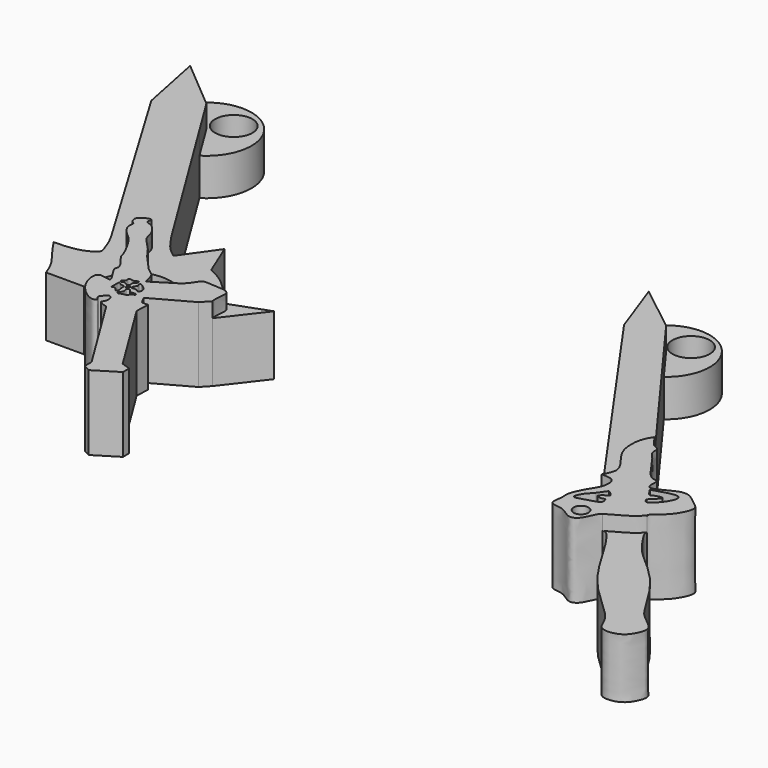
from build123d import *

# Parameters (mm, degrees)
F0_W     = 0.2278201282
F0_H     = 0.2657882869
F1_DEPTH = 6.35
F0_R     = 0.6219081294
F2_DEPTH = 5.08
F0_R_2   = 1.5875
F3_DEPTH = 3.175


with BuildPart() as f1:
    # F0 (on Top) → F1 (new body)
    with BuildSketch(Plane.XY):
        with BuildLine():
            add(Edge.make_bspline(
                [(-35.5196632445, -11.8958316743), (-35.4951967416, -12.0526460171), (-35.4506564694, -12.3381201419), (-35.0523927189, -12.4502255307), (-35.3259866929, -13.0562193825), (-34.540828134, -13.9815890149), (-33.994362855, -14.3106629296), (-33.0635370812, -15.8965147165), (-32.8915083474, -16.4826779525), (-32.8202722833, -16.7254046232)],
                knots=[0, 0, 0, 0, 0.107889826, 0.1964090344, 0.3138979443, 0.4867036801, 0.6264613857, 0.8453199064, 1, 1, 1, 1], degree=3))
            add(Edge.make_bspline(
                [(-32.8202722833, -16.7254046232), (-32.41124344, -17.2384798006), (-31.8025719504, -18.0019815382), (-32.2876514182, -18.329271796), (-30.9465990776, -19.9227675338), (-31.8146096882, -19.6783664852), (-32.4407377964, -19.5755163625), (-32.5765934333, -20.276460616), (-32.2682804921, -21.2770867493), (-31.4013096176, -22.2994287747), (-30.5014062554, -22.7615025473), (-30.0671098577, -22.5025578745), (-30.5746873545, -22.157667947), (-30.146058485, -21.7850162485), (-29.8687019991, -21.4938971571), (-29.5658550845, -21.8861986131), (-29.6359501732, -22.3962017814), (-29.9426091047, -22.6813407795), (-29.4267997049, -22.8364383192), (-29.0997898829, -22.9347661489)],
                knots=[0, 0, 0, 0, 0.0913483637, 0.1359345325, 0.2270486508, 0.2759326825, 0.3327925691, 0.3869695301, 0.4627043485, 0.5497538223, 0.622029129, 0.6610224372, 0.7073438904, 0.7576838879, 0.8004947531, 0.8451919278, 0.8983461375, 0.9355540797, 1, 1, 1, 1], degree=3))
            Line((-29.0997898829, -22.9347661489), (-24.8749102235, -29.7726235539))
            Line((-24.8749102235, -29.7726235539), (-24.8749102235, -30.4967612028))
            Line((-24.8749102235, -30.4967612028), (-24.2954920977, -30.7977870107))
            Line((-24.2954920977, -30.7977870107), (-22.349312486, -29.5953087828))
            Line((-22.349312486, -29.5953087828), (-22.349312486, -28.9314202964))
            Line((-22.349312486, -28.9314202964), (-23.1063501264, -28.6798903865))
            Line((-23.1063501264, -28.6798903865), (-27.1316726378, -22.1650110147))
            Line((-27.1316726378, -22.1650110147), (-27.0868130028, -21.0099676544))
            Line((-27.0868130028, -21.0099676544), (-27.6108545581, -21.0099676544))
            Line((-27.6108545581, -21.0099676544), (-27.9437098652, -20.4079952091))
            Line((-27.9437098652, -20.4079952091), (-24.7199125588, -18.6254251748))
            Line((-24.7199125588, -18.6254251748), (-24.0751523525, -17.9427396506))
            add(Edge.make_bspline(
                [(-27.2243432701, -17.2017458826), (-27.0545260922, -17.0204544819), (-26.7293138848, -16.6732683058), (-26.4304758021, -16.0037228924), (-25.6841738874, -16.1253277726), (-24.5497809659, -16.1003198834), (-23.9312898779, -16.4098495434), (-24.1547205315, -17.4100563489), (-24.09934283, -17.7807922035), (-24.0751523525, -17.9427396506)],
                knots=[0, 0, 0, 0, 0.1439170751, 0.2756116327, 0.4124417427, 0.5929851979, 0.7168523913, 0.8763134674, 1, 1, 1, 1], degree=3))
            add(Edge.make_bspline(
                [(-29.2836558074, -18.4832904488), (-28.5972182949, -18.0561089267), (-27.9107807825, -17.6289274047), (-27.2243432701, -17.2017458826)],
                knots=[0, 0, 0, 0, 2.425515327, 2.425515327, 2.425515327, 2.425515327], degree=3))
            add(Edge.make_bspline(
                [(-31.4817763865, -15.6136555597), (-31.0009259916, -16.1883585522), (-30.2342139874, -17.1047177522), (-29.5473777476, -17.4236184558), (-29.375955148, -18.1423380424), (-29.3109751402, -18.3823732351), (-29.2836558074, -18.4832904488)],
                knots=[0, 0, 0, 0, 0.3849920181, 0.61386661, 0.8376591974, 1, 1, 1, 1], degree=3))
            add(Edge.make_bspline(
                [(-35.5196632445, -11.8958316743), (-35.483603078, -11.7344569471), (-35.2754577288, -11.4502382388), (-34.3428777664, -11.1354391308), (-34.7322201008, -11.7935206214), (-34.0221473553, -11.8369265404), (-33.2608680147, -12.8136451757), (-33.2672031974, -13.6451412875), (-32.2133996111, -14.5355374346), (-31.7264120228, -15.2531723369), (-31.4817763865, -15.6136555597)],
                knots=[0, 0, 0, 0, 0.1027638875, 0.2169535436, 0.3015668796, 0.4016737746, 0.5538223401, 0.6790147588, 0.8378572739, 1, 1, 1, 1], degree=3))
        make_face()
        with BuildLine():
            add(Edge.make_bspline(
                [(-30.5691249669, -19.7051148862), (-30.5235617714, -19.6855492451), (-30.3315715718, -19.944126242), (-29.940062451, -19.8099512646), (-30.0040782841, -20.2497910228), (-29.8603616183, -20.5838654803), (-30.0773514526, -20.8656495525), (-30.2647145813, -20.3212115974), (-30.6525809152, -20.5915441535), (-30.5816392305, -20.2292464808), (-30.6300313592, -19.731269167), (-30.5691249669, -19.7051148862)],
                knots=[0, 0, 0, 0, 0.1064560596, 0.2140902418, 0.3261730451, 0.4484090475, 0.5324159728, 0.6548667909, 0.7563694923, 0.8576953511, 1, 1, 1, 1], degree=3))
        make_face(mode=Mode.SUBTRACT)
        with Locations((-29.7401156276, -19.8380090296)):
            Rectangle(F0_W, F0_H, mode=Mode.SUBTRACT)
        with BuildLine():
            add(Edge.make_bspline(
                [(-30.4172448814, -18.8887622207), (-30.4631334874, -18.9403185417), (-30.3087231833, -19.2396870006), (-30.7465001464, -19.2957169646), (-30.565687531, -19.6505353978), (-30.3092535844, -19.3514334933), (-29.9850736271, -19.7144775729), (-29.7796388785, -19.6042481334), (-29.8822834346, -19.073768007), (-29.5659377299, -19.0449841479), (-29.5990957866, -18.7174698845), (-29.895609667, -18.8620394797), (-29.9999357836, -18.9474730921), (-30.3637919763, -18.828707332), (-30.4172448814, -18.8887622207)],
                knots=[0, 0, 0, 0, 0.0866824713, 0.1745284202, 0.2488684973, 0.3313139907, 0.4332584161, 0.4949864187, 0.604198258, 0.6818990936, 0.7531048982, 0.8328333085, 0.89902875, 1, 1, 1, 1], degree=3))
        make_face(mode=Mode.SUBTRACT)
        with BuildLine():
            add(Edge.make_bspline(
                [(-29.6135488898, -20.1480966061), (-29.6481464213, -20.2571977525), (-29.4268820128, -20.5659393122), (-29.8747955891, -20.8119569876), (-29.6978833519, -20.9795140126), (-29.5891373265, -20.9276618474), (-29.2655964166, -20.8044236747), (-28.9538328142, -20.8399376364), (-28.9987224016, -20.5220570337), (-28.6051309199, -20.4665020909), (-28.6445698334, -20.1977615338), (-29.2665212729, -20.4432014365), (-29.3326722697, -19.9414237014), (-29.5865440924, -20.062938671), (-29.6135488898, -20.1480966061)],
                knots=[0, 0, 0, 0, 0.1013296127, 0.1990334299, 0.2594807769, 0.3127797598, 0.4090514427, 0.489993188, 0.5649872828, 0.6566957955, 0.7132220336, 0.8279608991, 0.9209080668, 1, 1, 1, 1], degree=3))
        make_face(mode=Mode.SUBTRACT)
        with BuildLine():
            add(Edge.make_bspline(
                [(-29.3857306242, -19.0596263856), (-29.3887948191, -19.1272088818), (-29.2514324234, -19.3394357049), (-29.507563289, -19.5075909793), (-29.5139418145, -19.8995452265), (-29.1078328248, -19.6805630104), (-28.8500665078, -19.9860916941), (-28.6457174209, -19.8337962999), (-28.6864073695, -19.4215328723), (-28.9434846345, -19.2224555322), (-29.2940430356, -18.9339213689), (-29.3838041663, -19.0171373023), (-29.3857306242, -19.0596263856)],
                knots=[0, 0, 0, 0, 0.0972324203, 0.1968621001, 0.2917557521, 0.4002932945, 0.51013773, 0.5884950218, 0.7032815065, 0.8168170457, 0.9388700236, 1, 1, 1, 1], degree=3))
        make_face(mode=Mode.SUBTRACT)
    extrude(amount=F1_DEPTH)

    # F0 (on Top) → F2 (join)
    with BuildSketch(Plane.XY):
        with BuildLine():
            Line((-46.5726704622, 8.356596781), (-47.888297648, 9.467376567))
            Line((-47.888297648, 9.467376567), (-46.772631941, 3.9466502014))
            Line((-46.772631941, 3.9466502014), (-36.6690524452, -12.9474211306))
            add(Edge.make_bspline(
                [(-36.6690524452, -12.9474211306), (-36.5104131425, -13.2246953267), (-36.2452589997, -13.7045736436), (-35.9420564902, -14.6299211689), (-35.7335920497, -15.1112922824), (-36.714857414, -15.7135357469), (-37.7721631928, -15.9325579632), (-38.649988082, -15.9904851505), (-39.1322724673, -15.9813063468)],
                knots=[0, 0, 0, 0, 0.1638232787, 0.3327854144, 0.4438221728, 0.6143089924, 0.7985303425, 1, 1, 1, 1], degree=3))
            add(Edge.make_bspline(
                [(-39.1322724673, -15.9813063468), (-38.9986326667, -16.196859223), (-38.6626347247, -16.7388034825), (-37.358059875, -18.2663812377), (-36.976635652, -19.2428107595), (-36.7973434707, -19.7017909926)],
                knots=[0, 0, 0, 0, 0.2592477558, 0.651802173, 1, 1, 1, 1], degree=3))
            Line((-36.7973434707, -19.7017909926), (-33.564372805, -19.7017909926))
            add(Edge.make_bspline(
                [(-33.564372805, -19.7017909926), (-33.5777843215, -19.5022238839), (-33.6104102628, -19.016740772), (-33.2980504449, -17.6632402126), (-32.9728082683, -17.0248190519), (-32.8202722833, -16.7254046232)],
                knots=[0, 0, 0, 0, 0.2704134866, 0.6578297485, 1, 1, 1, 1], degree=3))
            add(Edge.make_bspline(
                [(-35.5196632445, -11.8958316743), (-35.4951967416, -12.0526460171), (-35.4506564694, -12.3381201419), (-35.0523927189, -12.4502255307), (-35.3259866929, -13.0562193825), (-34.540828134, -13.9815890149), (-33.994362855, -14.3106629296), (-33.0635370812, -15.8965147165), (-32.8915083474, -16.4826779525), (-32.8202722833, -16.7254046232)],
                knots=[0, 0, 0, 0, 0.107889826, 0.1964090344, 0.3138979443, 0.4867036801, 0.6264613857, 0.8453199064, 1, 1, 1, 1], degree=3))
            add(Edge.make_bspline(
                [(-35.5196632445, -11.8958316743), (-35.483603078, -11.7344569471), (-35.2754577288, -11.4502382388), (-34.3428777664, -11.1354391308), (-34.7322201008, -11.7935206214), (-34.0221473553, -11.8369265404), (-33.2608680147, -12.8136451757), (-33.2672031974, -13.6451412875), (-32.2133996111, -14.5355374346), (-31.7264120228, -15.2531723369), (-31.4817763865, -15.6136555597)],
                knots=[0, 0, 0, 0, 0.1027638875, 0.2169535436, 0.3015668796, 0.4016737746, 0.5538223401, 0.6790147588, 0.8378572739, 1, 1, 1, 1], degree=3))
            ThreePointArc((-31.4817763865, -15.6136555597), (-29.0680247882, -15.6435643232), (-27.2243432701, -17.2017458826))
            add(Edge.make_bspline(
                [(-27.2243432701, -17.2017458826), (-27.0545260922, -17.0204544819), (-26.7293138848, -16.6732683058), (-26.4304758021, -16.0037228924), (-25.6841738874, -16.1253277726), (-24.5497809659, -16.1003198834), (-23.9312898779, -16.4098495434), (-24.1547205315, -17.4100563489), (-24.09934283, -17.7807922035), (-24.0751523525, -17.9427396506)],
                knots=[0, 0, 0, 0, 0.1439170751, 0.2756116327, 0.4124417427, 0.5929851979, 0.7168523913, 0.8763134674, 1, 1, 1, 1], degree=3))
            Line((-24.0751523525, -17.9427396506), (-21.4961133897, -14.6051598713))
            Line((-21.4961133897, -14.6051598713), (-24.7199125588, -15.7808978111))
            add(Edge.make_bspline(
                [(-28.47468853, -12.5571005046), (-27.967236401, -12.8077128138), (-26.8974664082, -13.3360336404), (-25.4694543968, -15.0178971096), (-24.9377410897, -15.5591579248), (-24.7199125588, -15.7808978111)],
                knots=[0, 0, 0, 0, 0.3475687259, 0.7327165898, 1, 1, 1, 1], degree=3))
            Line((-28.47468853, -12.5571005046), (-29.6504255384, -9.6746459603))
            Line((-29.6504255384, -9.6746459603), (-31.6984839737, -12.5571005046))
            add(Edge.make_bspline(
                [(-33.470272234, -10.5797569277), (-33.1630331327, -11.0346908736), (-32.5981518362, -11.8711198177), (-31.9802903967, -12.3422281371), (-31.6984839737, -12.5571005046)],
                knots=[0, 0, 0, 0, 0.5439002907, 1, 1, 1, 1], degree=3))
            Line((-33.470272234, -10.5797569277), (-41.6244633918, 2.6175885318))
            Line((-41.6244633918, 2.6175885318), (-43.6411246472, 5.8815021127))
            Line((-43.6411246472, 5.8815021127), (-46.5726704622, 8.356596781))
        make_face()
    extrude(amount=F2_DEPTH)

    # F0 (on Top) → F3 (join)
    with BuildSketch(Plane.XY):
        with BuildLine():
            ThreePointArc((-41.6244633918, 2.6175885318), (-40.7353876734, 8.386845826), (-46.5726704622, 8.356596781))
            Line((-46.5726704622, 8.356596781), (-43.6411246472, 5.8815021127))
            Line((-43.6411246472, 5.8815021127), (-41.6244633918, 2.6175885318))
        make_face()
        with Locations((-42.5049774349, 7.3716412298)):
            Circle(F0_R_2, mode=Mode.SUBTRACT)
    extrude(amount=F3_DEPTH)


with BuildPart() as f1b:
    # F0 (on Top) → F1, piece 2 (new body)
    with BuildSketch(Plane.XY):
        with BuildLine():
            add(Edge.make_bspline(
                [(11.0297416843, -14.8562450632), (10.8776969457, -15.0927542044), (10.5466076753, -15.6077712958), (10.4126084139, -16.8511084785), (10.672875137, -17.9650346189), (11.4612734858, -18.9817671634), (12.264079717, -20.0891517361), (11.8430613467, -20.8443469756), (11.6346785799, -21.218130365)],
                knots=[0, 0, 0, 0, 0.1452508824, 0.3162951191, 0.4810825482, 0.658506893, 0.8309782102, 1, 1, 1, 1], degree=3))
            add(Edge.make_bspline(
                [(11.6346785799, -21.218130365), (12.0689884634, -21.227142686), (12.9297956024, -21.2450052089), (12.8410732495, -22.1844245436), (12.7260005102, -22.5333515555)],
                knots=[0, 0, 0, 0, 0.0231859445, 0.0459548063, 0.0459548063, 0.0459548063, 0.0459548063], degree=3))
            add(Edge.make_bspline(
                [(13.5158710182, -22.8006448597), (13.3223049285, -22.7180734919), (12.9172719962, -22.7156878505), (12.7793214234, -22.584181598), (12.7260005102, -22.5333515555)],
                knots=[0.3879431401, 0.3879431401, 0.3879431401, 0.3879431401, 0.7634266387, 1, 1, 1, 1], degree=3))
            add(Edge.make_bspline(
                [(13.9986034483, -23.2297386974), (13.8572318227, -23.0578474423), (13.7158601972, -22.8859561871), (13.5158710182, -22.8006448597)],
                knots=[0, 0, 0, 0, 0.3879431401, 0.3879431401, 0.3879431401, 0.3879431401], degree=3))
            add(Edge.make_bspline(
                [(13.9986034483, -23.2297386974), (13.6695219006, -23.4443554319), (13.1303311354, -23.7959988533), (13.6188267089, -23.9682014828), (13.9137508336, -23.893095608), (14.0448926698, -23.8376759562)],
                knots=[0, 0, 0, 0, 0.1283533136, 0.2103032573, 0.2680644397, 0.2680644397, 0.2680644397, 0.2680644397], degree=3))
            add(Edge.make_bspline(
                [(14.0448926698, -23.8376759562), (14.2673686986, -23.7436590933), (14.8987515757, -23.3274053894), (15.7733470072, -22.5797838299), (16.1977168173, -22.1818896172)],
                knots=[0.2680644397, 0.2680644397, 0.2680644397, 0.2680644397, 0.3660536004, 0.5165496021, 0.5165496021, 0.5165496021, 0.5165496021], degree=3))
            add(Edge.make_bspline(
                [(16.1977168173, -22.1818896172), (16.3977680864, -21.9943191531), (16.7918654572, -21.6030657421), (17.0986662032, -21.1876362697), (16.1614950801, -21.4536218602), (15.9760988593, -21.6775535074), (15.7004765877, -21.2620538021), (15.5138157346, -20.9568029076)],
                knots=[0.5165496021, 0.5165496021, 0.5165496021, 0.5165496021, 0.587494602, 0.6748299641, 0.7922376561, 0.8586741518, 0.9721819096, 0.9721819096, 0.9721819096, 0.9721819096], degree=3))
            add(Edge.make_bspline(
                [(15.5138157346, -20.9568029076), (15.4680695356, -20.8819930697), (15.4215545379, -20.8045911637), (15.3750395402, -20.7271892577)],
                knots=[0.9721819096, 0.9721819096, 0.9721819096, 0.9721819096, 1, 1, 1, 1], degree=3))
            add(Edge.make_bspline(
                [(15.3750395402, -20.7271892577), (15.2079767838, -20.695792356), (15.0673959979, -20.3179430393), (15.2505404406, -19.5028103083), (14.3620345415, -19.8321142096), (13.0673547951, -17.3902273097), (12.1740027375, -16.7645902948), (12.3735298519, -16.0216173941), (11.8564126738, -15.9102114657), (11.7051774025, -15.7537278518), (11.6346785799, -15.6807824969)],
                knots=[0.848513749, 0.848513749, 0.848513749, 0.848513749, 0.8639649264, 0.8816080168, 0.8976883022, 0.9335442833, 0.9567595088, 0.973134712, 0.987476657, 1, 1, 1, 1], degree=3))
            Line((11.6346785799, -15.6807824969), (11.0297416843, -14.8562450632))
        make_face()
        with BuildLine():
            add(Edge.make_bspline(
                [(13.5158710182, -22.8006448597), (13.3223049285, -22.7180734919), (12.9172719962, -22.7156878505), (12.7793214234, -22.584181598), (12.7260005102, -22.5333515555)],
                knots=[0.3879431401, 0.3879431401, 0.3879431401, 0.3879431401, 0.7634266387, 1, 1, 1, 1], degree=3))
            add(Edge.make_bspline(
                [(12.7260005102, -22.5333515555), (12.6103686884, -22.8839738337), (12.2023889219, -23.3910521914), (11.5094777906, -24.8346720248), (11.7215941095, -25.4169373006), (11.3471617129, -26.7158952828), (12.7510191171, -26.5245169135), (13.6312623726, -27.5040420733), (14.6249004156, -27.0805976219), (14.9470881297, -25.7750827329), (15.2245247737, -25.6339292973)],
                knots=[0.0459548063, 0.0459548063, 0.0459548063, 0.0459548063, 0.0688342909, 0.0957543768, 0.1138024253, 0.1355691966, 0.158153742, 0.1824363128, 0.2030270682, 0.2301645068, 0.2301645068, 0.2301645068, 0.2301645068], degree=3))
            add(Edge.make_bspline(
                [(15.2245247737, -25.6339292973), (15.9626819967, -25.2345349342), (17.1355949787, -24.5999074878), (17.5202631795, -24.1244238697), (17.662845552, -23.9481795579)],
                knots=[0, 0, 0, 0, 0.629336732, 1, 1, 1, 1], degree=3))
            add(Edge.make_bspline(
                [(17.662845552, -23.9481795579), (17.7285125526, -23.6270411266), (18.7798884221, -23.1562485458), (19.8126022755, -21.1404841156), (18.9764857746, -20.7030221104), (18.0172280349, -19.7258553941), (16.8484359905, -20.014029043), (15.6750514244, -20.7835719241), (15.3750395402, -20.7271892577)],
                knots=[0.6957804264, 0.6957804264, 0.6957804264, 0.6957804264, 0.7216656006, 0.7527987589, 0.7717725809, 0.7965956632, 0.8207664703, 0.848513749, 0.848513749, 0.848513749, 0.848513749], degree=3))
            add(Edge.make_bspline(
                [(15.5138157346, -20.9568029076), (15.4680695356, -20.8819930697), (15.4215545379, -20.8045911637), (15.3750395402, -20.7271892577)],
                knots=[0.9721819096, 0.9721819096, 0.9721819096, 0.9721819096, 1, 1, 1, 1], degree=3))
            add(Edge.make_bspline(
                [(15.5138157346, -20.9568029076), (16.0711461678, -20.7727748845), (16.9720060885, -20.4746064399), (17.8241933859, -20.498297651), (17.6935864252, -21.3787878394), (16.4745559042, -22.7965899946), (16.2675012665, -22.3368377664), (16.1977168173, -22.1818896172)],
                knots=[0, 0, 0, 0, 0.2644955635, 0.426909072, 0.6038825535, 0.8664618403, 1, 1, 1, 1], degree=3))
            add(Edge.make_bspline(
                [(14.0448926698, -23.8376759562), (14.2673686986, -23.7436590933), (14.8987515757, -23.3274053894), (15.7733470072, -22.5797838299), (16.1977168173, -22.1818896172)],
                knots=[0.2680644397, 0.2680644397, 0.2680644397, 0.2680644397, 0.3660536004, 0.5165496021, 0.5165496021, 0.5165496021, 0.5165496021], degree=3))
            add(Edge.make_bspline(
                [(12.9979047924, -23.5341787338), (12.7262439478, -23.8194548225), (12.2732331288, -24.2951622877), (12.0805927076, -25.0871999387), (12.9360413428, -24.7249018713), (14.351119434, -24.4587544569), (14.1287708267, -24.0079440248), (14.0448926698, -23.8376759562)],
                knots=[0, 0, 0, 0, 0.2385103209, 0.3976254124, 0.5877560868, 0.8439987309, 1, 1, 1, 1], degree=3))
            add(Edge.make_bspline(
                [(12.9979047924, -23.5341787338), (13.170560201, -23.2896674424), (13.3432156096, -23.0451561511), (13.5158710182, -22.8006448597)],
                knots=[0, 0, 0, 0, 0.8979760328, 0.8979760328, 0.8979760328, 0.8979760328], degree=3))
        make_face()
        with Locations((13.7793635949, -26.0953921825)):
            Circle(F0_R, mode=Mode.SUBTRACT)
    extrude(amount=F1_DEPTH)

    # F0 (on Top) → F2, piece 2 (join)
    with BuildSketch(Plane.XY):
        with BuildLine():
            Line((-3.8582973648, 3.139162669), (-2.1459774499, -1.6214606324))
            Line((-2.1459774499, -1.6214606324), (11.6346785799, -21.218130365))
            add(Edge.make_bspline(
                [(11.0297416843, -14.8562450632), (10.8776969457, -15.0927542044), (10.5466076753, -15.6077712958), (10.4126084139, -16.8511084785), (10.672875137, -17.9650346189), (11.4612734858, -18.9817671634), (12.264079717, -20.0891517361), (11.8430613467, -20.8443469756), (11.6346785799, -21.218130365)],
                knots=[0, 0, 0, 0, 0.1452508824, 0.3162951191, 0.4810825482, 0.658506893, 0.8309782102, 1, 1, 1, 1], degree=3))
            Line((11.0297416843, -14.8562450632), (2.2978691346, -2.9545808802))
            Line((2.2978691346, -2.9545808802), (0.1070605981, 0.031521739))
            Line((0.1070605981, 0.031521739), (-2.8079804016, 2.3160319416))
            Line((-2.8079804016, 2.3160319416), (-3.8582973648, 3.139162669))
        make_face()
        with BuildLine():
            add(Edge.make_bspline(
                [(15.2245247737, -25.6339292973), (15.9626819967, -25.2345349342), (17.1355949787, -24.5999074878), (17.5202631795, -24.1244238697), (17.662845552, -23.9481795579)],
                knots=[0, 0, 0, 0, 0.629336732, 1, 1, 1, 1], degree=3))
            add(Edge.make_bspline(
                [(15.2245247737, -25.6339292973), (15.4663893034, -25.510874142), (16.3804919022, -26.4842344113), (18.2920500491, -30.021188082), (20.192075859, -32.4783985431), (22.5837746482, -34.4779397771), (23.4869244926, -35.6502927426), (23.7939733128, -36.8552694412), (25.6224443469, -36.6411590794), (26.2294938452, -35.6118751767), (26.6076266155, -34.5475964147), (24.9729200341, -33.556873073), (24.212719221, -32.2532913683), (22.0520142902, -28.6779990462), (19.0704955206, -26.4873839663), (18.237863603, -25.0950228546), (17.6022900601, -24.2443206254), (17.662845552, -23.9481795579)],
                knots=[0.2301645068, 0.2301645068, 0.2301645068, 0.2301645068, 0.2538224625, 0.2991480478, 0.3395820232, 0.3781468717, 0.4049718253, 0.4271718427, 0.4541515944, 0.4781972235, 0.4993658506, 0.5275784701, 0.555379454, 0.6005613387, 0.6433736796, 0.6719101499, 0.6957804264, 0.6957804264, 0.6957804264, 0.6957804264], degree=3))
        make_face()
    extrude(amount=F2_DEPTH)

    # F0 (on Top) → F3, piece 2 (join)
    with BuildSketch(Plane.XY):
        with BuildLine():
            ThreePointArc((2.2978691346, -2.9545808802), (2.7671297785, 2.608435174), (-2.8079804016, 2.3160319416))
            Line((-2.8079804016, 2.3160319416), (0.1070605981, 0.031521739))
            Line((0.1070605981, 0.031521739), (2.2978691346, -2.9545808802))
        make_face()
        with Locations((1.0375970742, 1.5197688481)):
            Circle(F0_R_2, mode=Mode.SUBTRACT)
    extrude(amount=F3_DEPTH)


solid = Compound([f1.part, f1b.part])
